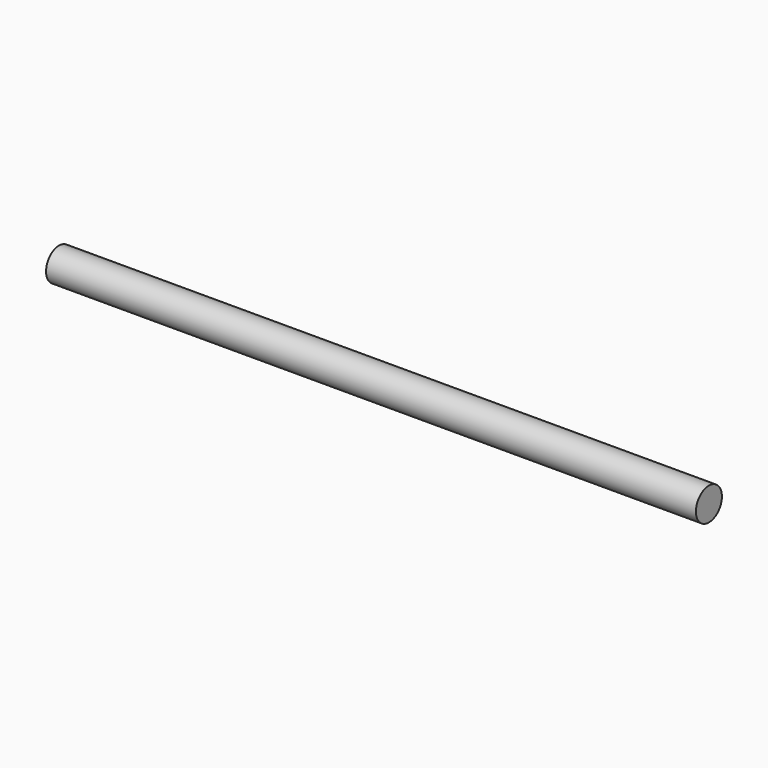
from build123d import *

# Parameters (mm, degrees)
F0_R     = 17.5
F0_R_2   = 15.5
F1_DEPTH = 700


with BuildPart() as f1:
    # F0 (on Right) → F1 (new body)
    with BuildSketch(Plane.YZ):
        Circle(F0_R)
        Circle(F0_R_2, mode=Mode.SUBTRACT)
        Circle(F0_R_2)
    extrude(amount=F1_DEPTH)


solid = f1.part
